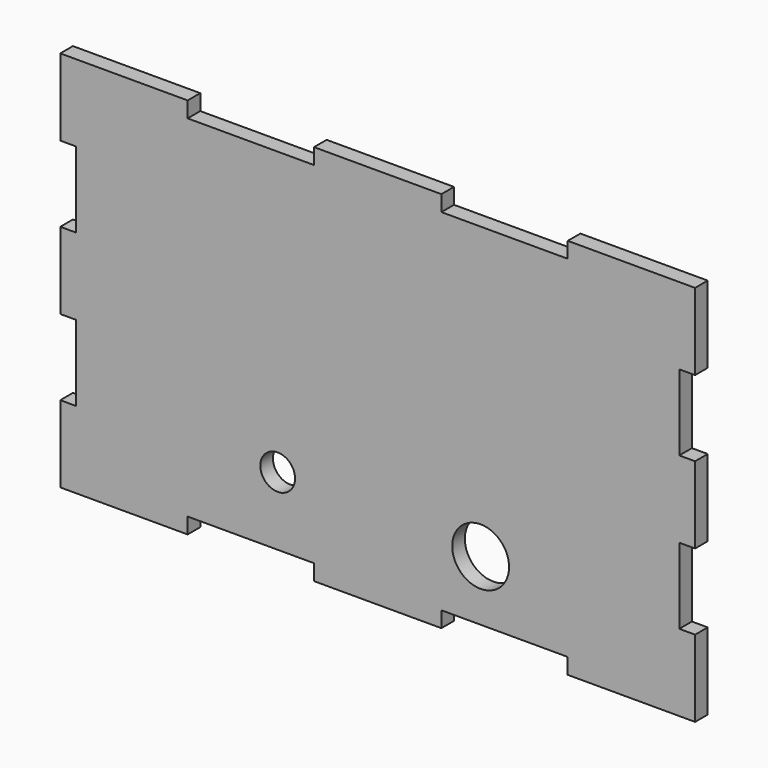
from build123d import *

# Parameters (mm, degrees)
F0_R     = 3.4925
F0_R_2   = 5.715
F1_DEPTH = 3.175


with BuildPart() as f1:
    # F0 (on Front) → F1 (new body)
    with BuildSketch(Plane.XZ):
        Polygon((-20.159644, 37.370049), (-45.762844, 37.370049), (-45.762844, 21.926849), (-42.587844, 21.926849), (-42.587844, 6.686849), (-45.762844, 6.686849), (-45.762844, -8.756351), (-42.587844, -8.756351), (-42.587844, -23.996351), (-45.762844, -23.996351), (-45.762844, -39.439551), (-20.159644, -39.439551), (-20.159644, -36.264551), (5.240356, -36.264551), (5.240356, -39.439551), (30.843556, -39.439551), (30.843556, -36.264551), (56.243556, -36.264551), (56.243556, -39.439551), (81.846756, -39.439551), (81.846756, -23.996351), (78.671756, -23.996351), (78.671756, -8.756351), (81.846756, -8.756351), (81.846756, 6.686849), (78.671756, 6.686849), (78.671756, 21.926849), (81.846756, 21.926849), (81.846756, 37.370049), (56.243556, 37.370049), (56.243556, 34.195049), (30.843556, 34.195049), (30.843556, 37.370049), (5.240356, 37.370049), (5.240356, 34.195049), (-20.159644, 34.195049), align=None)
        with Locations((-2.059706, -22.523151)):
            Circle(F0_R, mode=Mode.SUBTRACT)
        with Locations((38.737215, -24.199551)):
            Circle(F0_R_2, mode=Mode.SUBTRACT)
    extrude(amount=F1_DEPTH)


solid = f1.part
